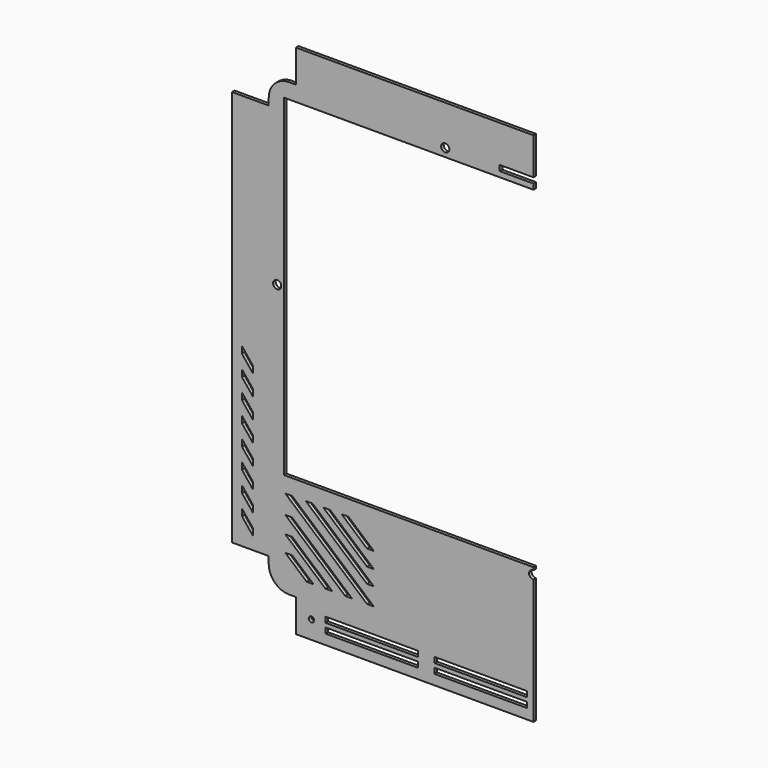
from build123d import *

# Parameters (mm, degrees)
F0_W     = 34.29
F0_H     = 369.824
F0_W_2   = 221.488
F0_H_2   = 30.48
F1_DEPTH = 3
F2_W     = 212.566798
F2_H     = 309.88
F2_W_2   = 19.780282
F2_W_3   = 22.356551
F2_W_4   = 86.36
F2_H_2   = 5.08
F2_R     = 2.5
F2_R_2   = 3.81
F2_W_5   = 57.019912
F3_DEPTH = 25.4
F5_DEPTH = 25.4


with BuildPart() as f1:
    # F0 (on Front) → F1 (new body)
    with BuildSketch(Plane.XZ):
        with Locations((-263.71608, 0.16686)):
            Rectangle(F0_W, F0_H)
        with BuildLine():
            Line((-246.57108, 191.42886), (-246.57108, 185.07886))
            Line((-246.57108, 185.07886), (-246.57108, -184.74514))
            Line((-246.57108, -184.74514), (-246.57108, -191.09514))
            ThreePointArc((-246.57108, -191.09514), (-240.991464, -204.565524), (-227.52108, -210.14514))
            Line((-227.52108, -210.14514), (-221.17108, -210.14514))
            Line((-221.17108, -210.14514), (0.31692, -210.14514))
            Line((0.31692, -210.14514), (0.31692, 210.47886))
            Line((0.31692, 210.47886), (-202.12108, 210.47886))
            Line((-202.12108, 210.47886), (-221.17108, 210.47886))
            Line((-221.17108, 210.47886), (-227.52108, 210.47886))
            ThreePointArc((-227.52108, 210.47886), (-240.991464, 204.899244), (-246.57108, 191.42886))
        make_face()
        Polygon((-221.17108, 240.95886), (-221.17108, 210.47886), (-202.12108, 210.47886), (0.31692, 210.47886), (0.31692, 240.95886), align=None)
        with Locations((-110.42708, -225.38514)):
            Rectangle(F0_W_2, F0_H_2)
    extrude(amount=F1_DEPTH)

    # F2 (on Front) → F3 (cut)
    with BuildSketch(Plane.XZ):
        with Locations((-126.063681, 41.31486)):
            Rectangle(F2_W, F2_H)
        with Locations((-9.890141, 41.31486)):
            Rectangle(F2_W_2, F2_H)
        with Locations((11.178275, 41.31486)):
            Rectangle(F2_W_3, F2_H)
        Polygon((-261.367738, -166.503845), (-271.527738, -153.803845), (-271.527738, -160.153845), (-261.367738, -172.853845), align=None)
        Polygon((-271.527738, -134.753845), (-271.527738, -141.103845), (-261.367738, -153.803845), (-261.367738, -147.453845), align=None)
        Polygon((-271.527738, -122.053845), (-261.367738, -134.753845), (-261.367738, -128.403845), (-271.527738, -115.703845), align=None)
        Polygon((-271.527738, -103.003845), (-261.367738, -115.703845), (-261.367738, -109.353845), (-271.527738, -96.653845), align=None)
        Polygon((-271.527738, -83.953845), (-261.367738, -96.653845), (-261.367738, -90.303845), (-271.527738, -77.603845), align=None)
        Polygon((-271.527738, -64.903845), (-261.367738, -77.603845), (-261.367738, -71.253845), (-271.527738, -58.553845), align=None)
        Polygon((-271.527738, -45.853845), (-261.367738, -58.553845), (-261.367738, -52.203845), (-271.527738, -39.503845), align=None)
        Polygon((-271.527738, -26.803845), (-261.367738, -39.503845), (-261.367738, -33.153845), (-271.527738, -20.453845), align=None)
        with Locations((-150.390271, -228.668471)):
            Rectangle(F2_W_4, F2_H_2)
        with Locations((-150.390271, -219.778471)):
            Rectangle(F2_W_4, F2_H_2)
        with Locations((-48.790271, -219.778471)):
            Rectangle(F2_W_4, F2_H_2)
        with Locations((-48.790271, -228.668471)):
            Rectangle(F2_W_4, F2_H_2)
        with Locations((-206.757738, -223.780845)):
            Circle(F2_R)
        with Locations((-81.97908, 203.87486)):
            Circle(F2_R_2)
        with Locations((-238.69708, 40.658346)):
            Circle(F2_R_2)
        with Locations((0, -119.97514)):
            Circle(F2_R_2)
        with Locations((-2.669124, 203.87486)):
            Rectangle(F2_W_5, F2_H_2)
    extrude(amount=F3_DEPTH, mode=Mode.SUBTRACT)

    # F4 (on Front) → F5 (cut)
    with BuildSketch(Plane.XZ):
        Polygon((-224.760328, -128.296434), (-231.110328, -128.296434), (-154.910328, -194.336434), (-148.560328, -194.336434), align=None)
        Polygon((-205.710328, -128.296434), (-212.060328, -128.296434), (-154.910328, -177.826434), (-148.560328, -177.826434), align=None)
        Polygon((-224.760328, -145.913435), (-231.110328, -145.913435), (-175.237637, -194.336434), (-168.887637, -194.336434), align=None)
        Polygon((-224.760328, -161.858131), (-231.110328, -161.858131), (-193.635364, -194.336434), (-187.285364, -194.336434), align=None)
        Polygon((-224.760328, -177.031307), (-231.110328, -177.031307), (-211.142873, -194.336434), (-204.792873, -194.336434), align=None)
        Polygon((-154.910328, -163.62169), (-148.560328, -163.62169), (-189.320239, -128.296434), (-195.670239, -128.296434), align=None)
        Polygon((-154.910328, -148.76998), (-148.560328, -148.76998), (-172.183651, -128.296434), (-178.533651, -128.296434), align=None)
    extrude(amount=F5_DEPTH, mode=Mode.SUBTRACT)


solid = f1.part
